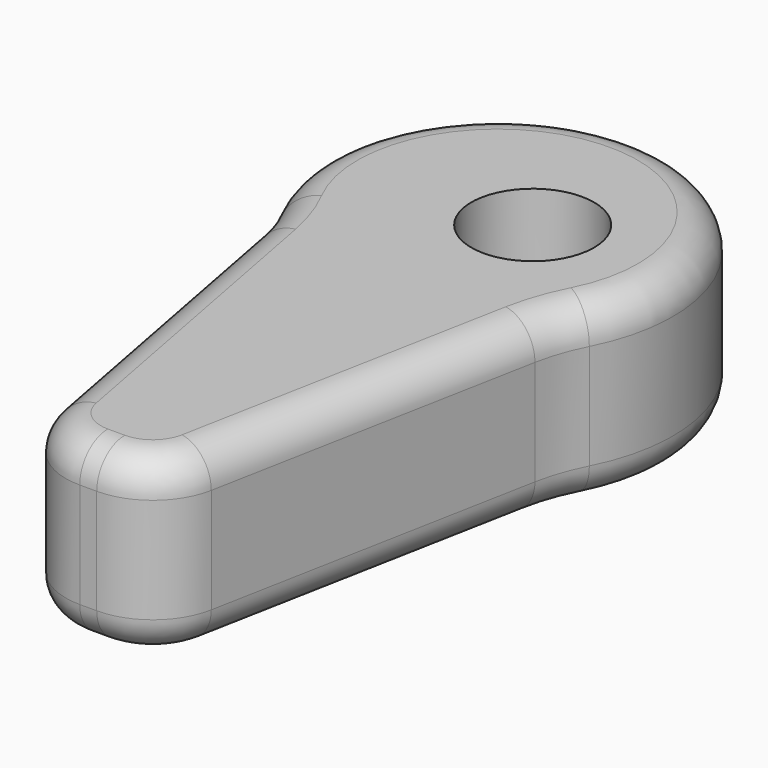
from build123d import *

# Parameters (mm, degrees)
F0_R     = 1.75
F1_DEPTH = 2.5
F2_R     = 2
F3_R     = 5
F4_R     = 1


with BuildPart() as f1:
    # F0 (on Top) → F1 (new body, symmetric)
    with BuildSketch(Plane.XY):
        with BuildLine():
            Line((1.8980583428, -14.5959100367), (4.1378631671, -2.8067932611))
            ThreePointArc((4.1378631671, -2.8067932611), (0, 5), (-4.1378631671, -2.8067932611))
            Line((-4.1378631671, -2.8067932611), (-1.8980583428, -14.5959100367))
            Line((-1.8980583428, -14.5959100367), (1.8980583428, -14.5959100367))
        make_face()
        with Locations((1, 0)):
            Circle(F0_R, mode=Mode.SUBTRACT)
    extrude(amount=F1_DEPTH, both=True)

    # F2
    f2_edges = [f1.edges().sort_by_distance(p)[0] for p in [
        (1.898058, -14.59591, 0),
        (-1.898058, -14.59591, 0),
    ]]
    fillet(f2_edges, radius=F2_R)

    # F3
    f3_edges = [f1.edges().sort_by_distance(p)[0] for p in [
        (4.137863, -2.806793, 0),
        (-4.137863, -2.806793, 0),
    ]]
    fillet(f3_edges, radius=F3_R)

    # F4
    f4_edges = [f1.edges().sort_by_distance(p)[0] for p in [
        (0, 5, 2.5),
        (0, 5, -2.5),
    ]]
    fillet(f4_edges, radius=F4_R)


solid = f1.part
